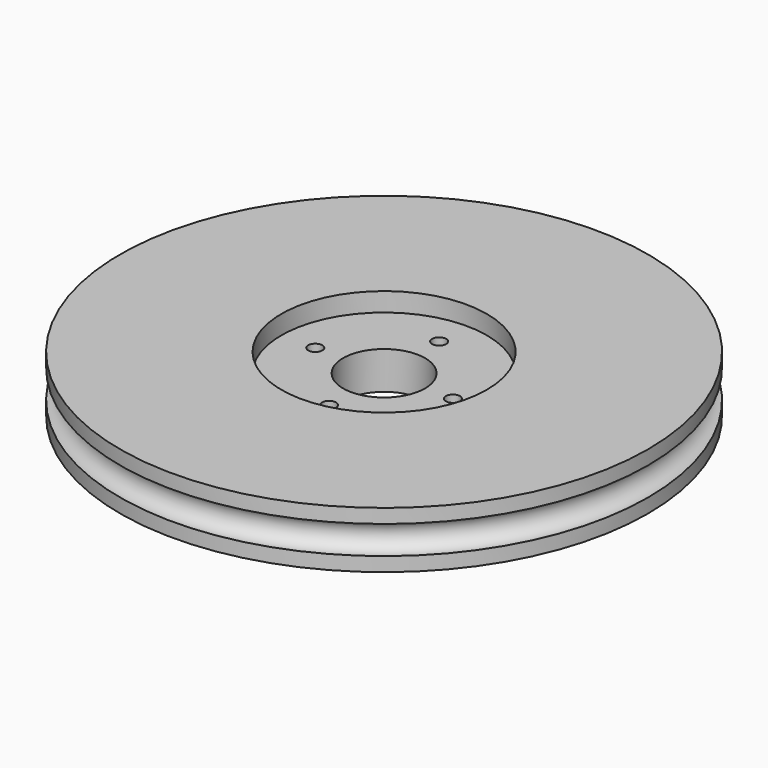
from build123d import *

# Parameters (mm, degrees)
CYLINDER003_R     = 0.75
CYLINDER003_DEPTH = 10
ARRAY_COUNT       = 4
CYLINDER002_R     = 4.35
CYLINDER002_DEPTH = 10
CYLINDER001_R     = 10.9
CYLINDER001_DEPTH = 10
TORUS001_R        = 1.5
CYLINDER_R        = 28
CYLINDER_DEPTH    = 6


with BuildPart() as array:
    # Cylinder003 → Cylinder003 (new body)
    with BuildSketch(Plane(origin=(7.3, 0, -1), x_dir=(1, 0, 0), z_dir=(0, 0, 1))):
        Circle(CYLINDER003_R)
    extrude(amount=CYLINDER003_DEPTH)

    # Array: Array ×4 about axis
    array_axis = Axis((0, 0, 0), (0, 0, 1))


with BuildPart() as array_1:
    add(array.part)
    for i in range(1, ARRAY_COUNT):
        add(array.part.rotate(array_axis, i * 360 / ARRAY_COUNT))


with BuildPart() as cylinder002:
    # Cylinder002 → Cylinder002 (new body)
    with BuildSketch(Plane.XY.offset(-1)):
        Circle(CYLINDER002_R)
    extrude(amount=CYLINDER002_DEPTH)


with BuildPart() as cylinder001:
    # Cylinder001 → Cylinder001 (new body)
    with BuildSketch(Plane.XY.offset(4)):
        Circle(CYLINDER001_R)
    extrude(amount=CYLINDER001_DEPTH)


with BuildPart() as torus001:
    # Torus001 → Torus001 (revolve)
    with BuildSketch(Plane(origin=(0, 0, 3), x_dir=(1, 0, 0), z_dir=(0, -1, 0))):
        with Locations((28, 0)):
            Circle(TORUS001_R)
    revolve(axis=Axis((0, 0, 3), (0, 0, 1)))


with BuildPart() as cut003:
    # Cylinder → Cylinder (new body)
    with BuildSketch(Plane.XY):
        Circle(CYLINDER_R)
    extrude(amount=CYLINDER_DEPTH)

    # Cut: cut Torus001
    add(torus001.part, mode=Mode.SUBTRACT)

    # Cut001: cut Cylinder001
    add(cylinder001.part, mode=Mode.SUBTRACT)

    # Cut002: cut Cylinder002
    add(cylinder002.part, mode=Mode.SUBTRACT)

    # Cut003: cut Array
    add(array_1.part, mode=Mode.SUBTRACT)


solid = cut003.part
